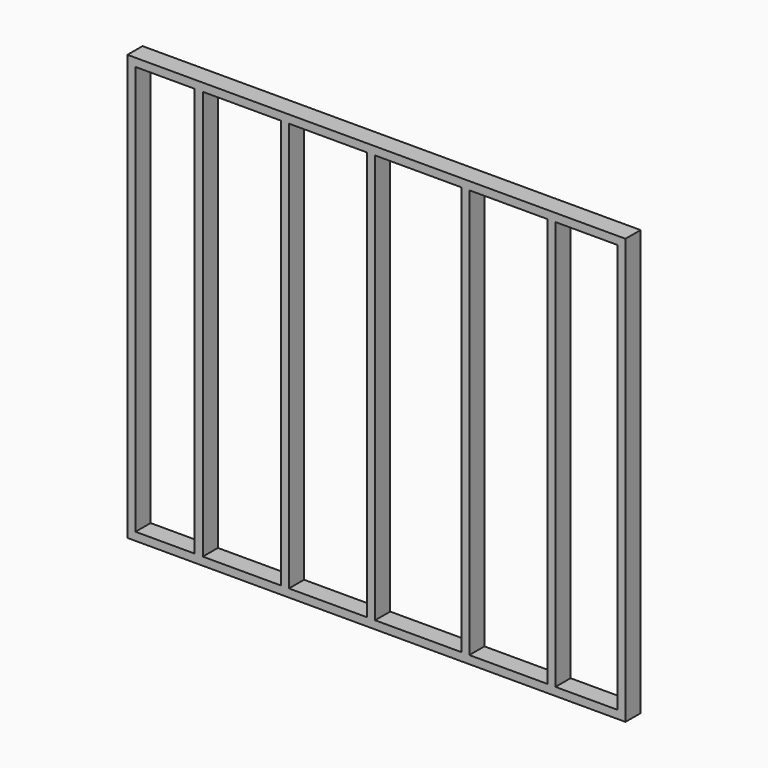
from build123d import *

# Parameters (mm, degrees)
F0_W     = 2349.5
F0_H     = 88.9
F1_DEPTH = 38.1
F2_W     = 38.1
F2_H     = 88.9
F3_DEPTH = 1930.4
F4_W     = 2349.5
F4_H     = 38.1
F5_DEPTH = 88.9


with BuildPart() as f1:
    # F0 (on Top) → F1 (new body)
    with BuildSketch(Plane.XY):
        Rectangle(F0_W, F0_H)
    extrude(amount=F1_DEPTH)

    # F2 (on face) → F3 (join)
    with BuildSketch(Plane.XY.offset(38.1)):
        with Locations((-1155.7, 0)):
            Rectangle(F2_W, F2_H)
        with Locations((-838.2, 0)):
            Rectangle(F2_W, F2_H)
        with Locations((-431.8, 0)):
            Rectangle(F2_W, F2_H)
        with Locations((-25.4, 0)):
            Rectangle(F2_W, F2_H)
        with Locations((419.1, 0)):
            Rectangle(F2_W, F2_H)
        with Locations((825.5, 0)):
            Rectangle(F2_W, F2_H)
        with Locations((1155.7, 0)):
            Rectangle(F2_W, F2_H)
    extrude(amount=F3_DEPTH)

    # F4 (on face) → F5 (join)
    with BuildSketch(Plane.XZ.offset(44.45)):
        with Locations((0, 1987.55)):
            Rectangle(F4_W, F4_H)
    extrude(amount=-F5_DEPTH)


solid = f1.part
